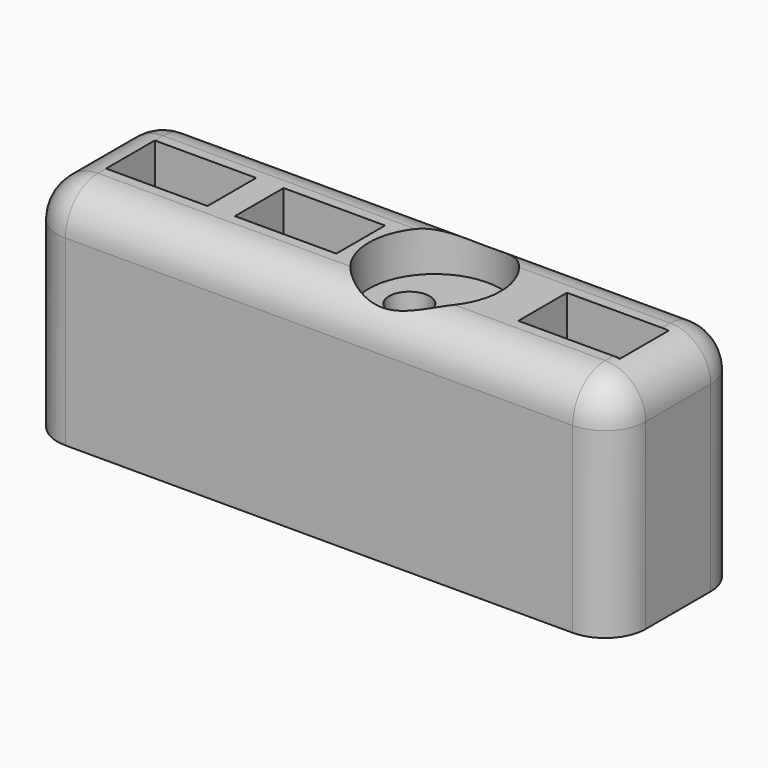
from build123d import *

# Parameters (mm, degrees)
BOX001_W          = 5
BOX001_H          = 3
BOX001_DEPTH      = 10
BOX002_W          = 5
BOX002_H          = 3
BOX002_DEPTH      = 10
BOX003_W          = 5
BOX003_H          = 3
BOX003_DEPTH      = 10
CYLINDER_R        = 3.25
CYLINDER_DEPTH    = 10
CYLINDER002_R     = 1
CYLINDER002_DEPTH = 20
CYLINDER001_R     = 1
CYLINDER001_DEPTH = 20
CYLINDER004_R     = 1
CYLINDER004_DEPTH = 20
CYLINDER003_R     = 1
CYLINDER003_DEPTH = 20
CYLINDER006_R     = 1
CYLINDER006_DEPTH = 20
CYLINDER005_R     = 1
CYLINDER005_DEPTH = 20
CYLINDER008_R     = 1
CYLINDER008_DEPTH = 20
CYLINDER007_R     = 1
CYLINDER007_DEPTH = 20
BOX_W             = 29
BOX_H             = 8
BOX_DEPTH         = 11
FILLET_R          = 2


with BuildPart() as cube001:
    # Box001 → Box001 (new body)
    with BuildSketch(Plane(origin=(2, 1.5, 9), x_dir=(1, 0, 0), z_dir=(0, 0, 1))):
        with Locations((2.5, 1.5)):
            Rectangle(BOX001_W, BOX001_H)
    extrude(amount=BOX001_DEPTH)


with BuildPart() as cube002:
    # Box002 → Box002 (new body)
    with BuildSketch(Plane(origin=(8.35, 1.5, 9), x_dir=(1, 0, 0), z_dir=(0, 0, 1))):
        with Locations((2.5, 1.5)):
            Rectangle(BOX002_W, BOX002_H)
    extrude(amount=BOX002_DEPTH)


with BuildPart() as cube003:
    # Box003 → Box003 (new body)
    with BuildSketch(Plane(origin=(22.32, 1.5, 9), x_dir=(1, 0, 0), z_dir=(0, 0, 1))):
        with Locations((2.5, 1.5)):
            Rectangle(BOX003_W, BOX003_H)
    extrude(amount=BOX003_DEPTH)


with BuildPart() as cylinder:
    # Cylinder → Cylinder (new body)
    with BuildSketch(Plane(origin=(17, 3, 9), x_dir=(1, 0, 0), z_dir=(0, 0, 1))):
        Circle(CYLINDER_R)
    extrude(amount=CYLINDER_DEPTH)


with BuildPart() as cylinder002:
    # Cylinder002 → Cylinder002 (new body)
    with BuildSketch(Plane(origin=(5.75, 3, 0), x_dir=(1, 0, 0), z_dir=(0, 0, 1))):
        Circle(CYLINDER002_R)
    extrude(amount=CYLINDER002_DEPTH)


with BuildPart() as fusion:
    # Cylinder001 → Cylinder001 (new body)
    with BuildSketch(Plane(origin=(3.25, 3, 0), x_dir=(1, 0, 0), z_dir=(0, 0, 1))):
        Circle(CYLINDER001_R)
    extrude(amount=CYLINDER001_DEPTH)

    # Fusion: union Cylinder002
    add(cylinder002.part)


with BuildPart() as cylinder004:
    # Cylinder004 → Cylinder004 (new body)
    with BuildSketch(Plane(origin=(5.75, 3, 0), x_dir=(1, 0, 0), z_dir=(0, 0, 1))):
        Circle(CYLINDER004_R)
    extrude(amount=CYLINDER004_DEPTH)


with BuildPart() as fusion001:
    # Cylinder003 → Cylinder003 (new body)
    with BuildSketch(Plane(origin=(3.25, 3, 0), x_dir=(1, 0, 0), z_dir=(0, 0, 1))):
        Circle(CYLINDER003_R)
    extrude(amount=CYLINDER003_DEPTH)

    # Fusion001: union Cylinder004
    add(cylinder004.part)


with BuildPart() as fusion001_1:
    # Fusion001 placement: moved
    add(fusion001.part.moved(Location((6.25, 0, 0))))


with BuildPart() as cylinder006:
    # Cylinder006 → Cylinder006 (new body)
    with BuildSketch(Plane(origin=(5.75, 3, 0), x_dir=(1, 0, 0), z_dir=(0, 0, 1))):
        Circle(CYLINDER006_R)
    extrude(amount=CYLINDER006_DEPTH)


with BuildPart() as fusion002:
    # Cylinder005 → Cylinder005 (new body)
    with BuildSketch(Plane(origin=(3.25, 3, 0), x_dir=(1, 0, 0), z_dir=(0, 0, 1))):
        Circle(CYLINDER005_R)
    extrude(amount=CYLINDER005_DEPTH)

    # Fusion002: union Cylinder006
    add(cylinder006.part)


with BuildPart() as fusion002_1:
    # Fusion002 placement: moved
    add(fusion002.part.moved(Location((20.25, 0, 0))))


with BuildPart() as cylinder008:
    # Cylinder008 → Cylinder008 (new body)
    with BuildSketch(Plane(origin=(5.75, 3, 0), x_dir=(1, 0, 0), z_dir=(0, 0, 1))):
        Circle(CYLINDER008_R)
    extrude(amount=CYLINDER008_DEPTH)


with BuildPart() as fusion004:
    # Cylinder007 → Cylinder007 (new body)
    with BuildSketch(Plane(origin=(3.25, 3, 0), x_dir=(1, 0, 0), z_dir=(0, 0, 1))):
        Circle(CYLINDER007_R)
    extrude(amount=CYLINDER007_DEPTH)

    # Fusion003: union Cylinder008
    add(cylinder008.part)


with BuildPart() as fusion004_1:
    # Fusion003 placement: moved
    add(fusion004.part.moved(Location((12.5, 0, 0))))

    # Fusion004: union Cube001, Cube002, Cube003, Cylinder, Fusion, Fusion001, Fusion002
    add(cube001.part)
    add(cube002.part)
    add(cube003.part)
    add(cylinder.part)
    add(fusion.part)
    add(fusion001_1.part)
    add(fusion002_1.part)


with BuildPart() as standoff:
    # Box → Box (new body)
    with BuildSketch(Plane(origin=(0, -1, 0), x_dir=(1, 0, 0), z_dir=(0, 0, 1))):
        with Locations((14.5, 4)):
            Rectangle(BOX_W, BOX_H)
    extrude(amount=BOX_DEPTH)

    # Fillet
    fillet_edges = [standoff.edges().sort_by_distance(p)[0] for p in [
        (0, -1, 5.5),
        (0, 3, 11),
        (0, 7, 5.5),
        (29, -1, 5.5),
        (29, 3, 11),
        (29, 7, 5.5),
        (14.5, -1, 11),
        (14.5, 7, 11),
    ]]
    fillet(fillet_edges, radius=FILLET_R)

    # Cut: cut Fusion004
    add(fusion004_1.part, mode=Mode.SUBTRACT)


solid = standoff.part
